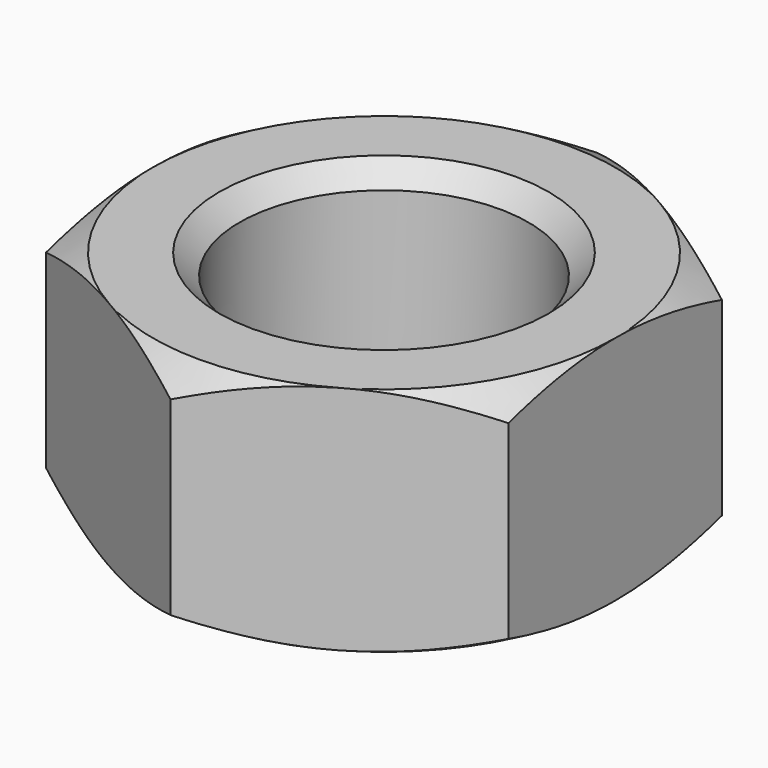
from build123d import *

# Parameters (mm, degrees)
SKETCH_R     = 2.5
PAD_DEPTH    = 2
CHAMFER_SIZE = 0.35


with BuildPart() as part:
    # Sketch → Pad (new body, symmetric)
    with BuildSketch(Plane.XY):
        Polygon((0, -4.618802), (4, -2.309401), (4, 2.309401), (0, 4.618802), (-4, 2.309401), (-4, -2.309401), align=None)
        Circle(SKETCH_R, mode=Mode.SUBTRACT)
    extrude(amount=PAD_DEPTH, both=True)

    # Sketch001 → Groove (revolve, cut)
    with BuildSketch(Plane.YZ):
        Polygon((-4, 2), (-4.618802, 1.642734), (-4.618802, 2), align=None)
        Polygon((-4, -2), (-4.618802, -2), (-4.618802, -1.642734), align=None)
    revolve(axis=Axis((0, 0, 0), (0, 0, 1)), mode=Mode.SUBTRACT)

    # Chamfer
    chamfer_edges = [part.edges().sort_by_distance(p)[0] for p in [
        (-2.5, 0, 2),
        (-2.5, 0, -2),
    ]]
    chamfer(chamfer_edges, length=CHAMFER_SIZE)


solid = part.part
